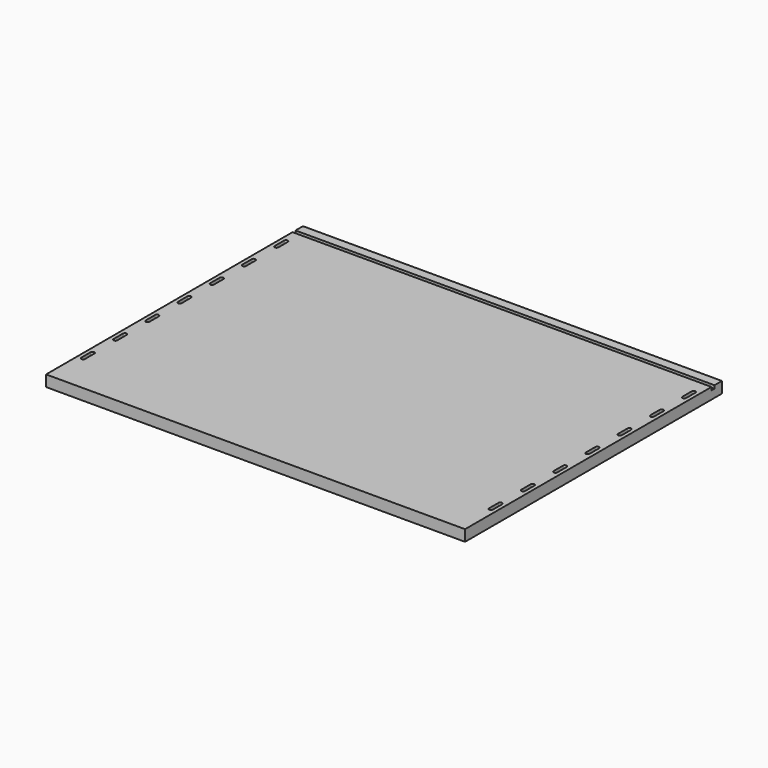
from build123d import *

# Parameters (mm, degrees)
F0_W     = 676
F0_H     = 500
F1_DEPTH = 18
F2_W     = 676
F2_H     = 6
F3_DEPTH = 5
F5_DEPTH = 10
F6_DEPTH = 18


with BuildPart() as f1:
    # F0 (on Top) → F1 (new body)
    with BuildSketch(Plane.XY):
        Rectangle(F0_W, F0_H)
    extrude(amount=F1_DEPTH)

    # F2 (on face) → F3 (cut)
    with BuildSketch(Plane.XY.offset(18)):
        with Locations((0, 232)):
            Rectangle(F2_W, F2_H)
    extrude(amount=-F3_DEPTH, mode=Mode.SUBTRACT)

    # F4 (on face) → F5 (cut)
    with BuildSketch(Plane.XY.offset(18)):
        with BuildLine():
            Line((326, -185.5), (326, -204.5))
            ThreePointArc((326, -204.5), (326.8786796564, -206.6213203436), (329, -207.5))
            ThreePointArc((329, -207.5), (331.1213203436, -206.6213203436), (332, -204.5))
            Line((332, -204.5), (332, -185.5))
            ThreePointArc((332, -185.5), (331.1213203436, -183.3786796564), (329, -182.5))
            ThreePointArc((329, -182.5), (326.8786796564, -183.3786796564), (326, -185.5))
        make_face()
        with BuildLine():
            ThreePointArc((332, -120.5), (331.1213203436, -118.3786796564), (329, -117.5))
            ThreePointArc((329, -117.5), (326.8786796564, -118.3786796564), (326, -120.5))
            Line((326, -120.5), (326, -139.5))
            ThreePointArc((326, -139.5), (326.8786796564, -141.6213203436), (329, -142.5))
            ThreePointArc((329, -142.5), (331.1213203436, -141.6213203436), (332, -139.5))
            Line((332, -139.5), (332, -120.5))
        make_face()
        with BuildLine():
            ThreePointArc((326, -74.5), (326.8786796564, -76.6213203436), (329, -77.5))
            ThreePointArc((329, -77.5), (331.1213203436, -76.6213203436), (332, -74.5))
            Line((332, -74.5), (332, -55.5))
            ThreePointArc((332, -55.5), (331.1213203436, -53.3786796564), (329, -52.5))
            ThreePointArc((329, -52.5), (326.8786796564, -53.3786796564), (326, -55.5))
            Line((326, -55.5), (326, -74.5))
        make_face()
        with BuildLine():
            Line((332, -9.5), (332, 9.5))
            ThreePointArc((332, 9.5), (331.1213203436, 11.6213203436), (329, 12.5))
            ThreePointArc((329, 12.5), (326.8786796564, 11.6213203436), (326, 9.5))
            Line((326, 9.5), (326, -9.5))
            ThreePointArc((326, -9.5), (326.8786796564, -11.6213203436), (329, -12.5))
            ThreePointArc((329, -12.5), (331.1213203436, -11.6213203436), (332, -9.5))
        make_face()
        with BuildLine():
            ThreePointArc((329, 77.5), (326.8786796564, 76.6213203436), (326, 74.5))
            Line((326, 74.5), (326, 55.5))
            ThreePointArc((326, 55.5), (326.8786796564, 53.3786796564), (329, 52.5))
            ThreePointArc((329, 52.5), (331.1213203436, 53.3786796564), (332, 55.5))
            Line((332, 55.5), (332, 74.5))
            ThreePointArc((332, 74.5), (331.1213203436, 76.6213203436), (329, 77.5))
        make_face()
        with BuildLine():
            ThreePointArc((329, 142.5), (326.8786796564, 141.6213203436), (326, 139.5))
            Line((326, 139.5), (326, 120.5))
            ThreePointArc((326, 120.5), (326.8786796564, 118.3786796564), (329, 117.5))
            ThreePointArc((329, 117.5), (331.1213203436, 118.3786796564), (332, 120.5))
            Line((332, 120.5), (332, 139.5))
            ThreePointArc((332, 139.5), (331.1213203436, 141.6213203436), (329, 142.5))
        make_face()
        with BuildLine():
            ThreePointArc((329, 207.5), (326.8786796564, 206.6213203436), (326, 204.5))
            Line((326, 204.5), (326, 185.5))
            ThreePointArc((326, 185.5), (326.8786796564, 183.3786796564), (329, 182.5))
            ThreePointArc((329, 182.5), (331.1213203436, 183.3786796564), (332, 185.5))
            Line((332, 185.5), (332, 204.5))
            ThreePointArc((332, 204.5), (331.1213203436, 206.6213203436), (329, 207.5))
        make_face()
        with BuildLine():
            ThreePointArc((-329, -207.5), (-326.8786796564, -206.6213203436), (-326, -204.5))
            Line((-326, -204.5), (-326, -185.5))
            ThreePointArc((-326, -185.5), (-326.8786796564, -183.3786796564), (-329, -182.5))
            ThreePointArc((-329, -182.5), (-331.1213203436, -183.3786796564), (-332, -185.5))
            Line((-332, -185.5), (-332, -204.5))
            ThreePointArc((-332, -204.5), (-331.1213203436, -206.6213203436), (-329, -207.5))
        make_face()
        with BuildLine():
            ThreePointArc((-326, -120.5), (-326.8786796564, -118.3786796564), (-329, -117.5))
            ThreePointArc((-329, -117.5), (-331.1213203436, -118.3786796564), (-332, -120.5))
            Line((-332, -120.5), (-332, -139.5))
            ThreePointArc((-332, -139.5), (-331.1213203436, -141.6213203436), (-329, -142.5))
            ThreePointArc((-329, -142.5), (-326.8786796564, -141.6213203436), (-326, -139.5))
            Line((-326, -139.5), (-326, -120.5))
        make_face()
        with BuildLine():
            Line((-326, -74.5), (-326, -55.5))
            ThreePointArc((-326, -55.5), (-326.8786796564, -53.3786796564), (-329, -52.5))
            ThreePointArc((-329, -52.5), (-331.1213203436, -53.3786796564), (-332, -55.5))
            Line((-332, -55.5), (-332, -74.5))
            ThreePointArc((-332, -74.5), (-331.1213203436, -76.6213203436), (-329, -77.5))
            ThreePointArc((-329, -77.5), (-326.8786796564, -76.6213203436), (-326, -74.5))
        make_face()
        with BuildLine():
            ThreePointArc((-332, -9.5), (-331.1213203436, -11.6213203436), (-329, -12.5))
            ThreePointArc((-329, -12.5), (-326.8786796564, -11.6213203436), (-326, -9.5))
            Line((-326, -9.5), (-326, 9.5))
            ThreePointArc((-326, 9.5), (-326.8786796564, 11.6213203436), (-329, 12.5))
            ThreePointArc((-329, 12.5), (-331.1213203436, 11.6213203436), (-332, 9.5))
            Line((-332, 9.5), (-332, -9.5))
        make_face()
        with BuildLine():
            ThreePointArc((-326, 74.5), (-326.8786796564, 76.6213203436), (-329, 77.5))
            ThreePointArc((-329, 77.5), (-331.1213203436, 76.6213203436), (-332, 74.5))
            Line((-332, 74.5), (-332, 55.5))
            ThreePointArc((-332, 55.5), (-331.1213203436, 53.3786796564), (-329, 52.5))
            ThreePointArc((-329, 52.5), (-326.8786796564, 53.3786796564), (-326, 55.5))
            Line((-326, 55.5), (-326, 74.5))
        make_face()
        with BuildLine():
            ThreePointArc((-329, 142.5), (-331.1213203436, 141.6213203436), (-332, 139.5))
            Line((-332, 139.5), (-332, 120.5))
            ThreePointArc((-332, 120.5), (-331.1213203436, 118.3786796564), (-329, 117.5))
            ThreePointArc((-329, 117.5), (-326.8786796564, 118.3786796564), (-326, 120.5))
            Line((-326, 120.5), (-326, 139.5))
            ThreePointArc((-326, 139.5), (-326.8786796564, 141.6213203436), (-329, 142.5))
        make_face()
        with BuildLine():
            ThreePointArc((-329, 207.5), (-331.1213203436, 206.6213203436), (-332, 204.5))
            Line((-332, 204.5), (-332, 185.5))
            ThreePointArc((-332, 185.5), (-331.1213203436, 183.3786796564), (-329, 182.5))
            ThreePointArc((-329, 182.5), (-326.8786796564, 183.3786796564), (-326, 185.5))
            Line((-326, 185.5), (-326, 204.5))
            ThreePointArc((-326, 204.5), (-326.8786796564, 206.6213203436), (-329, 207.5))
        make_face()
    extrude(amount=-F5_DEPTH, mode=Mode.SUBTRACT)

    # F6 (add): a face of the model
    f6_faces = [f1.faces().sort_by_distance(p)[0] for p in [
        (0, -250, 9),
    ]]
    extrude(f6_faces, amount=F6_DEPTH)


solid = f1.part
